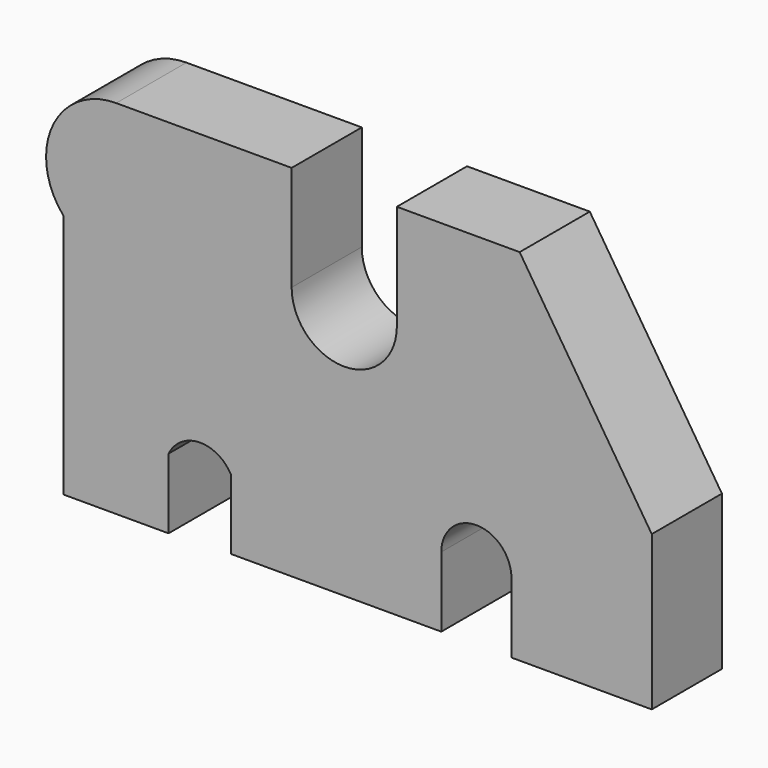
from build123d import *

# Parameters (mm, degrees)
F1_DEPTH = 25


with BuildPart() as f1:
    # F0 (on Front) → F1 (new body)
    with BuildSketch(Plane.XZ):
        with BuildLine():
            Line((-55.278507, 82.519693), (-105.278507, 82.519693))
            ThreePointArc((-105.278507, 82.519693), (-123.480072, 70.808423), (-120.365292, 49.389997))
            Line((-120.365292, 49.389997), (-120.365292, -20.610003))
            Line((-120.365292, -20.610003), (-90.365292, -20.610003))
            Line((-90.365292, -20.610003), (-90.365292, -0.610003))
            ThreePointArc((-90.365292, -0.610003), (-81.677001, 5.091472), (-72.617745, 0))
            Line((-72.617745, 0), (-72.617745, -20))
            Line((-72.617745, -20), (-12.617745, -20))
            Line((-12.617745, -20), (-12.617745, 0))
            ThreePointArc((-12.617745, 0), (-2.617745, 10), (7.382255, 0))
            Line((7.382255, 0), (7.382255, -20))
            Line((7.382255, -20), (47.382255, -20))
            Line((47.382255, -20), (47.382255, 24))
            Line((47.382255, 24), (9.721493, 82.519693))
            Line((9.721493, 82.519693), (-25.278507, 82.519693))
            Line((-25.278507, 82.519693), (-25.278507, 52.519693))
            ThreePointArc((-25.278507, 52.519693), (-40.278507, 37.519693), (-55.278507, 52.519693))
            Line((-55.278507, 52.519693), (-55.278507, 82.519693))
        make_face()
    extrude(amount=F1_DEPTH)


solid = f1.part
